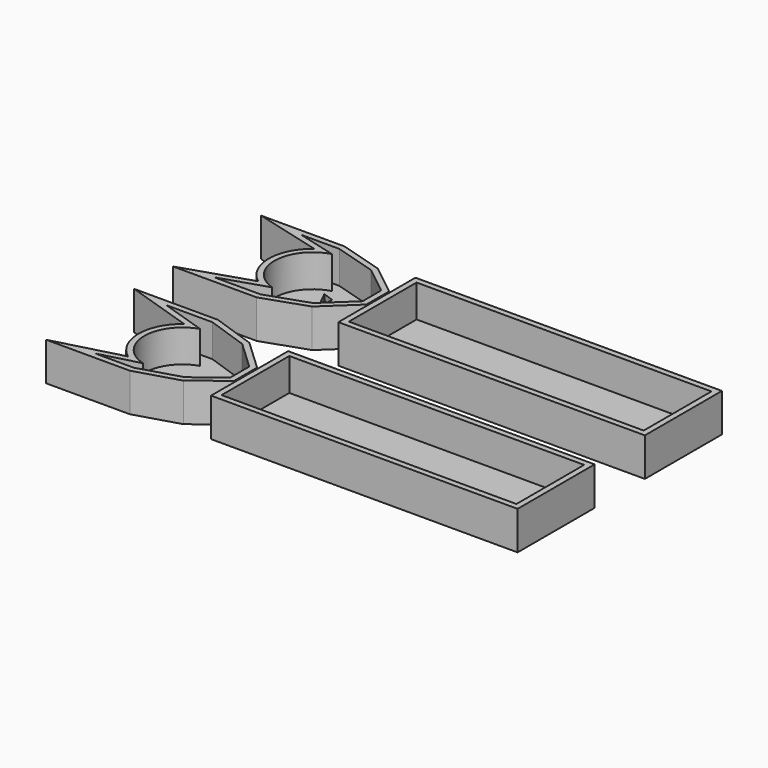
from build123d import *

# Parameters (mm, degrees)
F0_W     = 133.9747868478
F0_H     = 42.098284699
F1_DEPTH = 16.764
F2_T     = -2.54
F2_2_T   = -2.54
F5_T     = -2.54
F6_T     = -2.54
F7_DEPTH = 39.37
F8_DEPTH = 66.548


with BuildPart() as f1:
    # F0 (on Top) → F1 (new body)
    with BuildSketch(Plane.XY):
        with Locations((4.6494696289, 34.7717883997)):
            Rectangle(F0_W, F0_H)
    extrude(amount=F1_DEPTH)

    # F2
    f2_openings = [f1.faces().sort_by_distance(p)[0] for p in [
        (4.64947, 34.771788, 16.764),
    ]]
    offset(amount=F2_T, openings=f2_openings)


with BuildPart() as f1b:
    # F0 (on Top) → F1, piece 2 (new body)
    with BuildSketch(Plane.XY):
        with Locations((4.6494696289, -34.7717883997)):
            Rectangle(F0_W, F0_H)
    extrude(amount=F1_DEPTH)

    # F2#2
    f2_2_openings = [f1b.faces().sort_by_distance(p)[0] for p in [
        (4.64947, -34.771788, 16.764),
    ]]
    offset(amount=F2_2_T, openings=f2_2_openings)


with BuildPart() as f1c:
    # F0 (on Top) → F1, piece 3 (new body)
    with BuildSketch(Plane.XY):
        with BuildLine():
            Line((-76.5726566315, 17.1231180429), (-63.0102530122, 29.8506766558))
            Line((-63.0102530122, 29.8506766558), (-63.0102530122, 42.3522405326))
            Line((-63.0102530122, 42.3522405326), (-76.5726566315, 53.0578419566))
            Line((-76.5726566315, 53.0578419566), (-95.5285131931, 58.7562285364))
            Line((-95.5285131931, 58.7562285364), (-132.1180015802, 58.7562285364))
            Line((-132.1180015802, 58.7562285364), (-102.5851592422, 50.9229898453))
            ThreePointArc((-102.5851592422, 50.9229898453), (-110.2581374608, 35.5698214844), (-102.5851592422, 20.2166531235))
            Line((-102.5851592422, 20.2166531235), (-132.1180015802, 10.6106773019))
            Line((-132.1180015802, 10.6106773019), (-95.5285131931, 10.6106773019))
            Line((-95.5285131931, 10.6106773019), (-76.5726566315, 17.1231180429))
        make_face()
    extrude(amount=F1_DEPTH)

    # F5
    f5_openings = [f1c.faces().sort_by_distance(p)[0] for p in [
        (-91.261215, 34.733918, 16.764),
    ]]
    offset(amount=F5_T, openings=f5_openings, kind=Kind.INTERSECTION)

    # F4 (on Top) → F7 (cut)
    with BuildSketch(Plane.XY):
        Polygon((-91.4129316807, 38.9127098024), (-91.4129316807, 46.6573499143), (-96.1150377989, 48.247769475), align=None)
        Polygon((-91.4129316807, 19.7585485876), (-91.4129316807, 29.0244594216), (-96.1150377989, 18.6521708965), align=None)
    extrude(amount=F7_DEPTH, mode=Mode.SUBTRACT)

    # F3 (on Top) → F8 (cut)
    with BuildSketch(Plane.XY):
        with BuildLine():
            ThreePointArc((-74.3365213275, 43.9915135503), (-73.2353599192, 36.3454557386), (-74.405670166, 28.7096761167))
            Line((-74.405670166, 28.7096761167), (-71.2939873338, 27.8107449412))
            Line((-71.2939873338, 27.8107449412), (-71.2939873338, 45.0287424028))
            Line((-71.2939873338, 45.0287424028), (-74.3365213275, 43.9915135503))
        make_face()
    extrude(amount=F8_DEPTH, mode=Mode.SUBTRACT)


with BuildPart() as f1d:
    # F0 (on Top) → F1, piece 4 (new body)
    with BuildSketch(Plane.XY):
        with BuildLine():
            Line((-63.0102530122, -29.8506766558), (-76.5726566315, -17.1231180429))
            Line((-76.5726566315, -17.1231180429), (-95.5285131931, -10.6106773019))
            Line((-95.5285131931, -10.6106773019), (-132.1180015802, -10.6106773019))
            Line((-132.1180015802, -10.6106773019), (-102.5851592422, -20.2166531235))
            ThreePointArc((-102.5851592422, -20.2166531235), (-110.2581374608, -35.5698214844), (-102.5851592422, -50.9229898453))
            Line((-102.5851592422, -50.9229898453), (-132.1180015802, -58.7562285364))
            Line((-132.1180015802, -58.7562285364), (-95.5285131931, -58.7562285364))
            Line((-95.5285131931, -58.7562285364), (-76.5726566315, -53.0578419566))
            Line((-76.5726566315, -53.0578419566), (-63.0102530122, -42.3522405326))
            Line((-63.0102530122, -42.3522405326), (-63.0102530122, -29.8506766558))
        make_face()
    extrude(amount=F1_DEPTH)

    # F6
    f6_openings = [f1d.faces().sort_by_distance(p)[0] for p in [
        (-91.261215, -34.733918, 16.764),
    ]]
    offset(amount=F6_T, openings=f6_openings, kind=Kind.INTERSECTION)


solid = Compound([f1.part, f1b.part, f1c.part, f1d.part])
